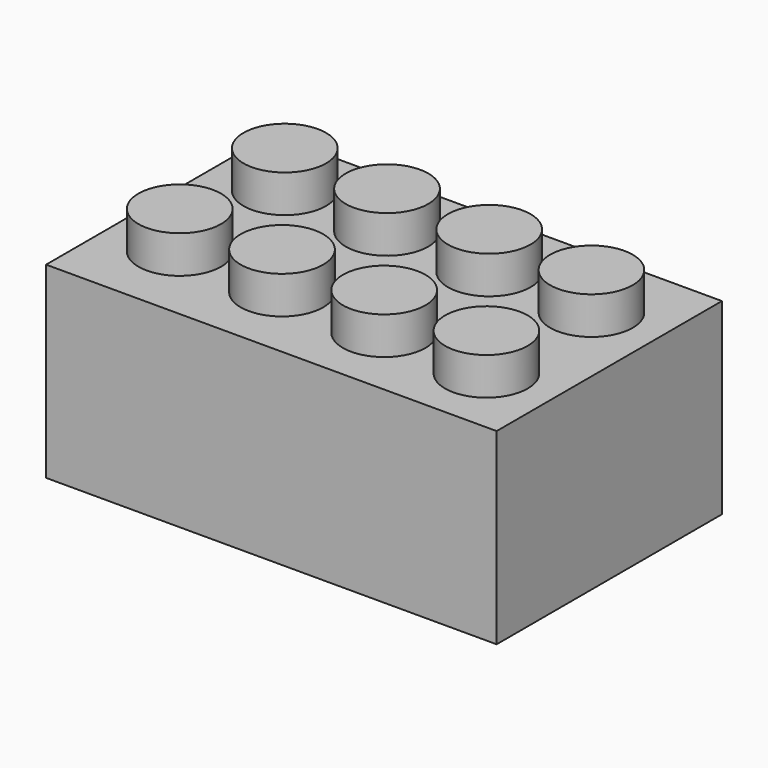
from build123d import *

# Parameters (mm, degrees)
F0_R     = 2.794
F1_DEPTH = 15.24
F0_W     = 30.48
F0_H     = 19.05
F2_DEPTH = 12.7


with BuildPart() as f1:
    # F0 (on Top) → F1 (new body)
    with BuildSketch(Plane.XY):
        with Locations((4.565305, 14.478351)):
            Circle(F0_R)
        with Locations((11.684, 14.224)):
            Circle(F0_R)
        with Locations((18.802695, 13.969649)):
            Circle(F0_R)
        with Locations((25.921391, 13.715298)):
            Circle(F0_R)
        with Locations((25.928086, 4.824947)):
            Circle(F0_R)
        with Locations((18.809391, 5.079298)):
            Circle(F0_R)
        with Locations((11.690695, 5.333649)):
            Circle(F0_R)
        with Locations((4.572, 5.588)):
            Circle(F0_R)
    extrude(amount=F1_DEPTH)


with BuildPart() as f2:
    # F0 (on Top) → F2 (new body)
    with BuildSketch(Plane.XY):
        with Locations((15.24, 9.525)):
            Rectangle(F0_W, F0_H)
        with Locations((4.572, 5.588)):
            Circle(F0_R, mode=Mode.SUBTRACT)
        with Locations((11.690695, 5.333649)):
            Circle(F0_R, mode=Mode.SUBTRACT)
        with Locations((18.809391, 5.079298)):
            Circle(F0_R, mode=Mode.SUBTRACT)
        with Locations((25.928086, 4.824947)):
            Circle(F0_R, mode=Mode.SUBTRACT)
        with Locations((11.684, 14.224)):
            Circle(F0_R, mode=Mode.SUBTRACT)
        with Locations((4.565305, 14.478351)):
            Circle(F0_R, mode=Mode.SUBTRACT)
        with Locations((18.802695, 13.969649)):
            Circle(F0_R, mode=Mode.SUBTRACT)
        with Locations((25.921391, 13.715298)):
            Circle(F0_R, mode=Mode.SUBTRACT)
    extrude(amount=F2_DEPTH)


solid = Compound([f1.part, f2.part])
